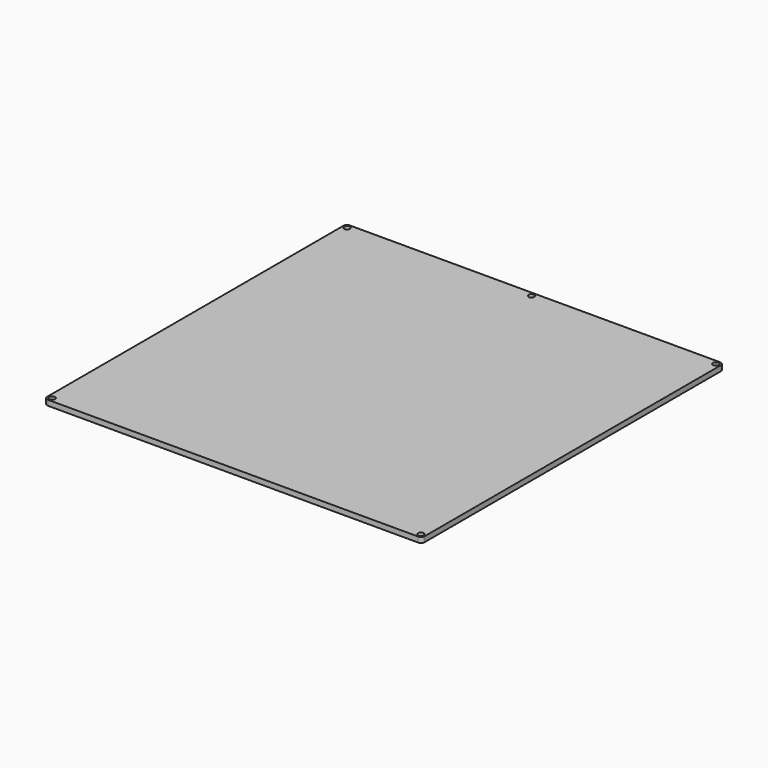
from build123d import *

# Parameters (mm, degrees)
F0_W     = 214
F0_H     = 214
F1_DEPTH = 3
F2_D     = 3.3
F3_R     = 2


with BuildPart() as f1:
    # F0 (on Top) → F1 (new body)
    with BuildSketch(Plane.XY):
        Rectangle(F0_W, F0_H)
    extrude(amount=F1_DEPTH)

    # F2 (through all)
    with Locations(Plane(origin=(0, 0, 0), x_dir=(1, 0, 0), z_dir=(0, 0, -1))):
        with Locations((104.5, 104.5), (-104.5, 104.5), (-104.5, -104.5), (0, -104.5), (104.5, -104.5)):
            Hole(F2_D / 2)

    # F3
    f3_edges = [f1.edges().sort_by_distance(p)[0] for p in [
        (-107, -107, 1.5),
        (107, -107, 1.5),
        (107, 107, 1.5),
        (-107, 107, 1.5),
    ]]
    fillet(f3_edges, radius=F3_R)


solid = f1.part
